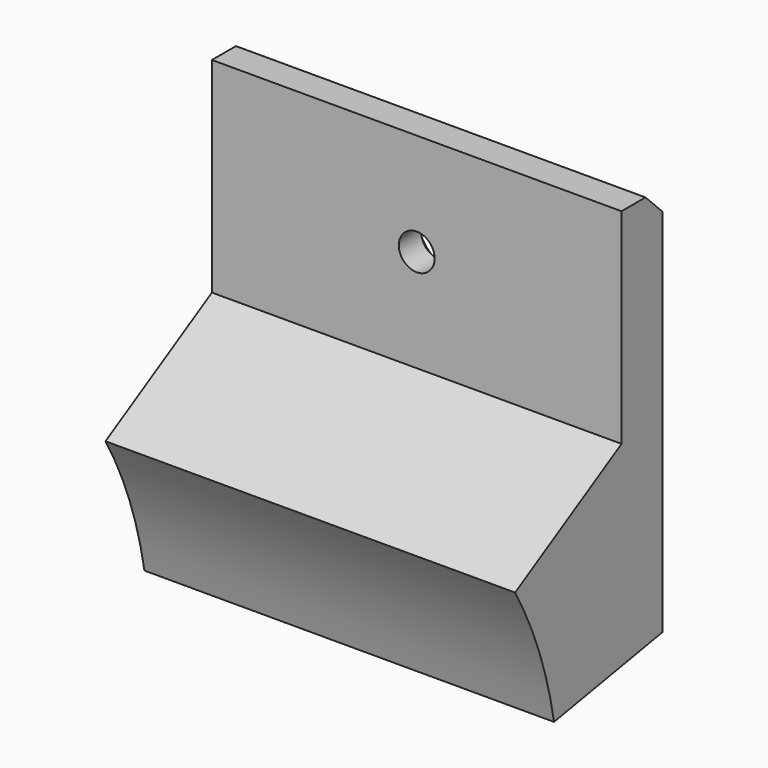
from build123d import *

# Parameters (mm, degrees)
PAD_DEPTH        = 20
HOLE_D           = 3.5
HOLE_CSINK_D     = 8
HOLE_CSINK_ANGLE = 90


with BuildPart() as part:
    # Sketch → Pad (new body, symmetric)
    with BuildSketch(Plane.YZ):
        with BuildLine():
            ThreePointArc((39.39231, 18.945927), (37.587705, 25.680806), (34.641016, 32))
            Line((34.641016, 32), (47.631397, 39.5))
            Line((47.631397, 59.5), (47.631397, 39.5))
            Line((50.560329, 59.5), (47.631397, 59.5))
            Line((50.560329, 59.5), (52.631397, 57.428932))
            Line((52.631397, 21.280335), (52.631397, 57.428932))
            Line((39.39231, 18.945927), (52.631397, 21.280335))
        make_face()
    extrude(amount=PAD_DEPTH, both=True)

    # Hole (through all)
    with Locations(Plane.ZX.offset(52.631397)):
        with Locations((49.5, 0)):
            CounterSinkHole(HOLE_D / 2, HOLE_CSINK_D / 2, counter_sink_angle=HOLE_CSINK_ANGLE)


solid = part.part
